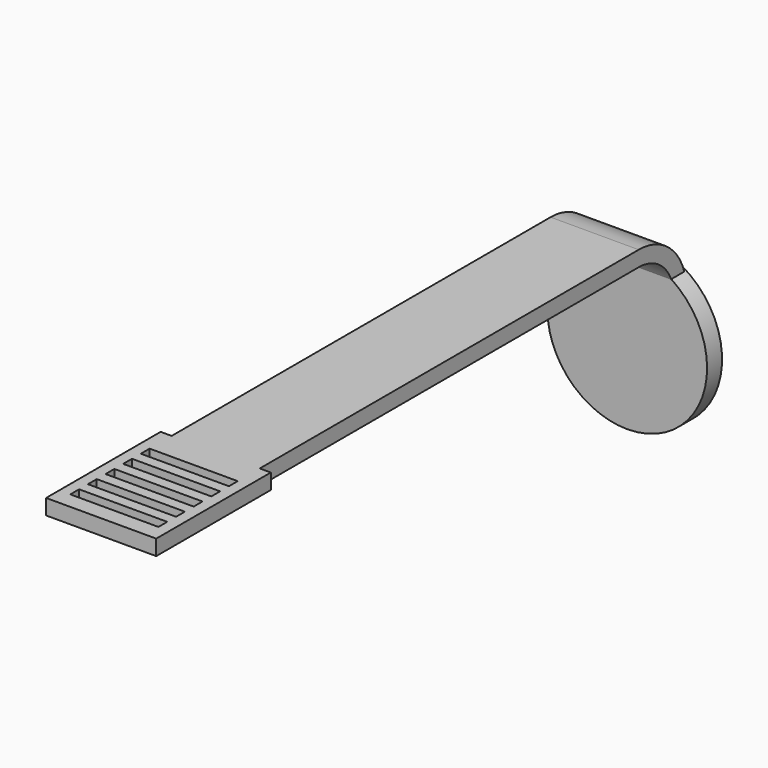
from build123d import *

# Parameters (mm, degrees)
F0_W     = 8
F0_H     = 43
F1_DEPTH = 1.4
F3_DEPTH = 8
F5_R     = 7.25
F6_DEPTH = 1.7
F7_W     = 8
F7_H     = 1
F8_DEPTH = 1.4


with BuildPart() as f1:
    # F0 (on Top) → F1 (new body)
    with BuildSketch(Plane.XY):
        with Locations((0, 28)):
            Rectangle(F0_W, F0_H)
        Polygon((5, -6.5), (5, 6.5), (4, 6.5), (-4, 6.5), (-5, 6.5), (-5, -6.5), align=None)
        Polygon((5, -6.5), (5, 6.5), (4, 6.5), (-4, 6.5), (-5, 6.5), (-5, -6.5), align=None)
        with Locations((0, 28)):
            Rectangle(F0_W, F0_H)
    extrude(amount=F1_DEPTH)

    # F2 (on face) → F3 (join, through all)
    with BuildSketch(Plane.YZ.offset(4)):
        with BuildLine():
            ThreePointArc((49.5, 0), (52.72945, -1.639777), (53.311111, -5.214674))
            Line((53.311111, -5.214674), (54.9, -4))
            ThreePointArc((54.9, -4), (53.318377, -0.181623), (49.5, 1.4))
            Line((49.5, 1.4), (49.5, 0))
        make_face()
        with BuildLine():
            ThreePointArc((49.5, 0), (52.72945, -1.639777), (53.311111, -5.214674))
            Line((53.311111, -5.214674), (54.9, -4))
            ThreePointArc((54.9, -4), (53.318377, -0.181623), (49.5, 1.4))
            Line((49.5, 1.4), (49.5, 0))
        make_face()
    extrude(amount=-F3_DEPTH)

    # F5 (on face) → F6 (join)
    with BuildSketch(Plane(origin=(0, 54.9, 0), x_dir=(-1, 0, 0), z_dir=(0, 1, 0))):
        with Locations((0, -8.5)):
            Circle(F5_R)
    extrude(amount=-F6_DEPTH)

    # F7 (on face) → F8 (cut, through all)
    with BuildSketch(Plane.XY.offset(1.4)):
        with Locations((0, -4.5)):
            Rectangle(F7_W, F7_H)
        with Locations((0, -2.5)):
            Rectangle(F7_W, F7_H)
        with Locations((0, -0.5)):
            Rectangle(F7_W, F7_H)
        with Locations((0, 1.5)):
            Rectangle(F7_W, F7_H)
        with Locations((0, 3.5)):
            Rectangle(F7_W, F7_H)
    extrude(amount=-F8_DEPTH, mode=Mode.SUBTRACT)


solid = f1.part
